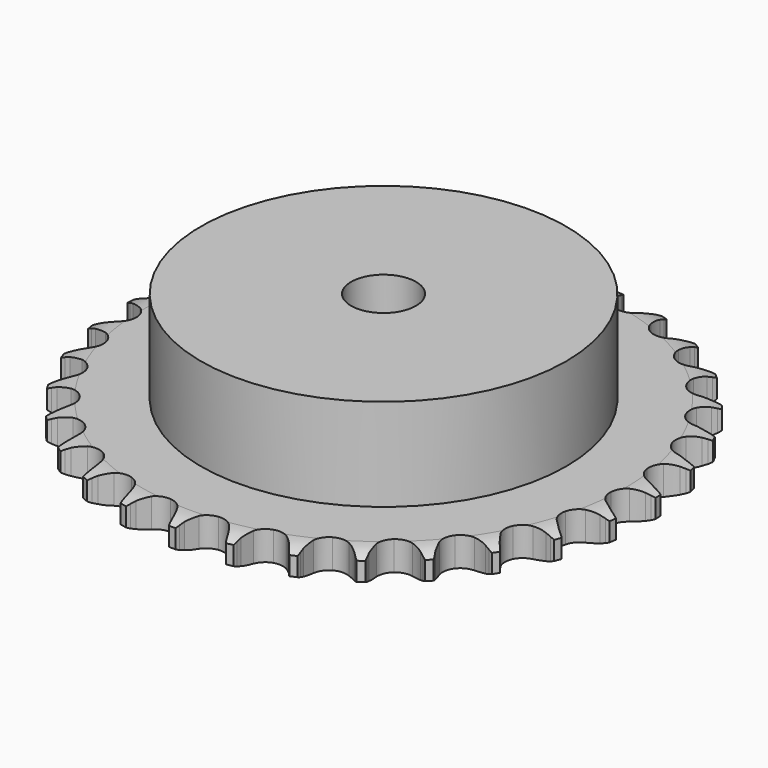
from build123d import *

# Parameters (mm, degrees)
PAD_DEPTH         = 7.2
SKETCH001_R       = 45
PAD001_DEPTH      = 30
SKETCH002_R       = 8
POCKET_DEPTH      = 0.001
POCKET_DEPTH_BACK = 30.001


with BuildPart() as part:
    # Sprocket → Pad (new body)
    with BuildSketch(Plane.XY):
        with BuildLine():
            ThreePointArc((-6.734861, 66.229298), (-5.950048, 65.186321), (-5.374824, 64.014634))
            Line((-5.374824, 64.014634), (-4.959758, 62.918621))
            ThreePointArc((-4.959758, 62.918621), (-4.301269, 61.492886), (-3.448535, 60.174109))
            ThreePointArc((-3.448535, 60.174109), (-1.927238, 58.906685), (0, 58.452308))
            ThreePointArc((0, 58.452308), (1.927238, 58.906685), (3.448535, 60.174109))
            ThreePointArc((3.448535, 60.174109), (4.301269, 61.492886), (4.959758, 62.918621))
            Line((4.959758, 62.918621), (5.374824, 64.014634))
            ThreePointArc((5.374824, 64.014634), (5.950048, 65.186321), (6.734861, 66.229298))
            ThreePointArc((6.734861, 66.229298), (7.293659, 65.049689), (7.62125, 63.786195))
            Line((7.62125, 63.786195), (7.807193, 62.629065))
            ThreePointArc((7.807193, 62.629065), (8.165206, 61.099962), (8.735016, 59.636526))
            ThreePointArc((8.735016, 59.636526), (9.970041, 58.088812), (11.766363, 57.255786))
            ThreePointArc((11.766363, 57.255786), (13.745616, 57.312912), (15.490902, 58.248156))
            Line((15.490902, 58.248156), (17.523657, 60.632281))
            ThreePointArc((17.523657, 60.632281), (17.824206, 61.135561), (18.150852, 61.622307))
            ThreePointArc((18.150852, 61.622307), (18.95016, 62.654217), (19.928858, 63.517862))
            ThreePointArc((19.928858, 63.517862), (20.238764, 62.249915), (20.305309, 60.946342))
            Line((20.305309, 60.946342), (20.254518, 59.775468))
            ThreePointArc((20.254518, 59.775468), (20.297395, 58.205599), (20.560954, 56.657417))
            ThreePointArc((20.560954, 56.657417), (21.459146, 54.892776), (23.05101, 53.715205))
            ThreePointArc((23.05101, 53.715205), (25.001247, 53.372741), (26.89907, 53.937518))
            Line((26.89907, 53.937518), (29.370135, 55.863649))
            ThreePointArc((29.370135, 55.863649), (29.765841, 56.296126), (30.183783, 56.707155))
            ThreePointArc((30.183783, 56.707155), (31.174451, 57.557042), (32.306965, 58.205998))
            ThreePointArc((32.306965, 58.205998), (32.355291, 56.901622), (32.158067, 55.611338))
            Line((32.158067, 55.611338), (31.87262, 54.474656))
            ThreePointArc((31.87262, 54.474656), (31.598607, 52.928291), (31.545125, 51.358747))
            ThreePointArc((31.545125, 51.358747), (32.06971, 49.449423), (33.391946, 47.975517))
            ThreePointArc((33.391946, 47.975517), (35.233323, 47.247484), (37.205987, 47.41867))
            Line((37.205987, 47.41867), (40.014197, 48.807952))
            ThreePointArc((40.014197, 48.807952), (40.488859, 49.151921), (40.980985, 49.470405))
            ThreePointArc((40.980985, 49.470405), (42.122455, 50.103475), (43.362421, 50.511174))
            ThreePointArc((43.362421, 50.511174), (43.147189, 49.223771), (42.694269, 47.999599))
            Line((42.694269, 47.999599), (42.185853, 46.943646))
            ThreePointArc((42.185853, 46.943646), (41.606169, 45.484093), (41.237834, 43.957443))
            ThreePointArc((41.237834, 43.957443), (41.367337, 41.981606), (42.365811, 40.271707))
            ThreePointArc((42.365811, 40.271707), (44.022944, 39.187909), (45.989686, 38.958497))
            Line((45.989686, 38.958497), (49.020072, 39.754051))
            ThreePointArc((49.020072, 39.754051), (49.554259, 39.995431), (50.100421, 40.208331))
            ThreePointArc((50.100421, 40.208331), (51.345962, 40.598666), (52.642614, 40.748416))
            ThreePointArc((52.642614, 40.748416), (52.172635, 39.530692), (51.482563, 38.422751))
            Line((51.482563, 38.422751), (50.771993, 37.490757))
            ThreePointArc((50.771993, 37.490757), (49.910368, 36.177771), (49.242261, 34.756517))
            ThreePointArc((49.242261, 34.756517), (48.97138, 32.795056), (49.605216, 30.919167))
            ThreePointArc((49.605216, 30.919167), (51.01026, 29.523977), (52.890563, 28.903359))
            Line((52.890563, 28.903359), (56.01906, 29.072616))
            ThreePointArc((56.01906, 29.072616), (56.590902, 29.201523), (57.16874, 29.300124))
            ThreePointArc((57.16874, 29.300124), (58.467358, 29.431743), (59.767612, 29.317414))
            ThreePointArc((59.767612, 29.317414), (59.062128, 28.219222), (58.163155, 27.272872))
            Line((58.163155, 27.272872), (57.279521, 26.502992))
            ThreePointArc((57.279521, 26.502992), (56.171232, 25.390326), (55.230705, 24.132655))
            ThreePointArc((55.230705, 24.132655), (54.57053, 22.265873), (54.813776, 20.300794))
            ThreePointArc((54.813776, 20.300794), (55.909209, 18.651329), (57.626093, 17.664913))
            Line((57.626093, 17.664913), (60.724621, 17.200944))
            ThreePointArc((60.724621, 17.200944), (61.310706, 17.212101), (61.896564, 17.192366))
            ThreePointArc((61.896564, 17.192366), (63.195094, 17.059881), (64.445718, 16.686152))
            ThreePointArc((64.445718, 16.686152), (63.533611, 15.752454), (62.46254, 15.006437))
            Line((62.46254, 15.006437), (61.442019, 14.430191))
            ThreePointArc((61.442019, 14.430191), (60.132439, 13.563399), (58.957997, 12.520799))
            ThreePointArc((58.957997, 12.520799), (57.935555, 10.825122), (57.778255, 8.851303))
            ThreePointArc((57.778255, 8.851303), (58.51923, 7.015094), (60.002404, 5.703264))
            Line((60.002404, 5.703264), (62.944109, 4.625063))
            ThreePointArc((62.944109, 4.625063), (63.520443, 4.518014), (64.090336, 4.38075))
            ThreePointArc((64.090336, 4.38075), (65.335616, 3.989585), (66.485408, 3.371758))
            ThreePointArc((66.485408, 3.371758), (65.40402, 2.640779), (64.204702, 2.125638))
            Line((64.204702, 2.125638), (63.089073, 1.766617))
            ThreePointArc((63.089073, 1.766617), (61.631816, 1.181184), (60.271541, 0.39634))
            ThreePointArc((60.271541, 0.39634), (58.928692, -1.05881), (58.377285, -2.960561))
            ThreePointArc((58.377285, -2.960561), (58.733466, -4.908339), (59.92221, -6.491877))
            Line((59.92221, -6.491877), (62.586658, -8.140168))
            ThreePointArc((62.586658, -8.140168), (63.129645, -8.361041), (63.660241, -8.610214))
            ThreePointArc((63.660241, -8.610214), (64.80129, -9.244045), (65.803178, -10.080676))
            ThreePointArc((65.803178, -10.080676), (64.59678, -10.579011), (63.318316, -10.842186))
            Line((63.318316, -10.842186), (62.153253, -10.969283))
            ThreePointArc((62.153253, -10.969283), (60.60798, -11.249388), (59.117562, -11.744345))
            ThreePointArc((59.117562, -11.744345), (57.509281, -12.899395), (56.586342, -14.651219))
            ThreePointArc((56.586342, -14.651219), (56.543147, -16.630825), (57.388794, -18.42124))
            Line((57.388794, -18.42124), (59.666901, -20.57214))
            ThreePointArc((59.666901, -20.57214), (60.154312, -20.897794), (60.623889, -21.248675))
            ThreePointArc((60.623889, -21.248675), (61.613991, -22.099222), (62.426958, -23.120406))
            ThreePointArc((62.426958, -23.120406), (61.144941, -23.365694), (59.83967, -23.366129))
            Line((59.83967, -23.366129), (58.672872, -23.256099))
            ThreePointArc((58.672872, -23.256099), (57.102846, -23.219409), (55.543303, -23.404216))
            ThreePointArc((55.543303, -23.404216), (53.735434, -24.211876), (52.478748, -25.742055))
            ThreePointArc((52.478748, -25.742055), (52.037945, -27.672443), (52.505874, -29.596436))
            Line((52.505874, -29.596436), (54.304375, -32.161886))
            ThreePointArc((54.304375, -32.161886), (54.716255, -32.578989), (55.105588, -33.017212))
            ThreePointArc((55.105588, -33.017212), (55.904208, -34.049655), (56.494971, -35.213584))
            ThreePointArc((56.494971, -35.213584), (55.189821, -35.195783), (53.911182, -34.93346))
            Line((53.911182, -34.93346), (52.790417, -34.590808))
            ThreePointArc((52.790417, -34.590808), (51.259915, -34.238825), (49.695094, -34.105915))
            ThreePointArc((49.695094, -34.105915), (47.761651, -34.533121), (46.222667, -35.779007))
            ThreePointArc((46.222667, -35.779007), (45.402303, -37.581148), (45.473357, -39.559949))
            Line((45.473357, -39.559949), (46.718621, -42.434921))
            ThreePointArc((46.718621, -42.434921), (47.038108, -42.926396), (47.331257, -43.434021))
            ThreePointArc((47.331257, -43.434021), (47.905701, -44.606091), (48.250073, -45.865114))
            ThreePointArc((48.250073, -45.865114), (46.975223, -45.584953), (45.775563, -45.070611))
            Line((45.775563, -45.070611), (44.746715, -44.509365))
            ThreePointArc((44.746715, -44.509365), (43.318396, -43.856499), (41.812362, -43.411313))
            ThreePointArc((41.812362, -43.411313), (39.832501, -43.440576), (38.074225, -44.351164))
            ThreePointArc((38.074225, -44.351164), (36.907886, -45.951276), (36.579155, -47.903874))
            Line((36.579155, -47.903874), (37.220201, -50.970665))
            ThreePointArc((37.220201, -50.970665), (37.434215, -51.516392), (37.61918, -52.072636))
            ThreePointArc((37.61918, -52.072636), (37.945928, -53.336348), (38.029811, -54.638921))
            ThreePointArc((38.029811, -54.638921), (36.837454, -54.107869), (35.765887, -53.362566))
            Line((35.765887, -53.362566), (34.871078, -52.605703))
            ThreePointArc((34.871078, -52.605703), (33.603418, -51.678683), (32.217828, -50.939448))
            ThreePointArc((32.217828, -50.939448), (30.272604, -50.569568), (28.36702, -51.107578))
            ThreePointArc((28.36702, -51.107578), (26.902456, -52.440153), (26.187399, -54.286609))
            Line((26.187399, -54.286609), (26.197982, -57.419664))
            ThreePointArc((26.197982, -57.419664), (26.297761, -57.9973), (26.366968, -58.579392))
            ThreePointArc((26.366968, -58.579392), (26.432645, -59.883009), (26.252605, -61.175804))
            ThreePointArc((26.252605, -61.175804), (25.191555, -60.415603), (24.291952, -59.469851))
            Line((24.291952, -59.469851), (23.567815, -58.548358))
            ThreePointArc((23.567815, -58.548358), (22.512712, -57.385135), (21.304291, -56.382115))
            ThreePointArc((21.304291, -56.382115), (19.473343, -55.628237), (17.498465, -55.771642))
            ThreePointArc((17.498465, -55.771642), (15.795636, -56.782125), (14.723527, -58.446844))
            Line((14.723527, -58.446844), (14.103215, -61.517895))
            ThreePointArc((14.103215, -61.517895), (14.084674, -62.103793), (14.03529, -62.6879))
            ThreePointArc((14.03529, -62.6879), (13.837206, -63.978053), (13.400614, -65.208142))
            ThreePointArc((13.400614, -65.208142), (12.514311, -64.249914), (11.823501, -63.142434))
            Line((11.823501, -63.142434), (11.299683, -62.094036))
            ThreePointArc((11.299683, -62.094036), (10.500332, -60.742234), (9.518555, -59.516492))
            ThreePointArc((9.518555, -59.516492), (7.876841, -58.409478), (5.913522, -58.152408))
            ThreePointArc((5.913522, -58.152408), (4.04214, -58.799429), (2.656872, -60.214257))
            Line((2.656872, -60.214257), (1.43106, -63.097576))
            ThreePointArc((1.43106, -63.097576), (1.294958, -63.667748), (1.129005, -64.229958))
            ThreePointArc((1.129005, -64.229958), (0.67527, -65.453827), (0, -66.570851))
            ThreePointArc((0, -66.570851), (-0.67527, -65.453827), (-1.129005, -64.229958))
            Line((-1.129005, -64.229958), (-1.43106, -63.097576))
            ThreePointArc((-1.43106, -63.097576), (-1.941932, -61.612538), (-2.656872, -60.214257))
            ThreePointArc((-2.656872, -60.214257), (-4.04214, -58.799429), (-5.913522, -58.152408))
            ThreePointArc((-5.913522, -58.152408), (-7.876841, -58.409478), (-9.518555, -59.516492))
            Line((-9.518555, -59.516492), (-11.299683, -62.094036))
            ThreePointArc((-11.299683, -62.094036), (-11.547773, -62.625139), (-11.823501, -63.142434))
            ThreePointArc((-11.823501, -63.142434), (-12.514311, -64.249914), (-13.400614, -65.208142))
            ThreePointArc((-13.400614, -65.208142), (-13.837206, -63.978053), (-14.03529, -62.6879))
            Line((-14.03529, -62.6879), (-14.103215, -61.517895))
            ThreePointArc((-14.103215, -61.517895), (-14.304693, -59.960418), (-14.723527, -58.446844))
            ThreePointArc((-14.723527, -58.446844), (-15.795636, -56.782125), (-17.498465, -55.771642))
            ThreePointArc((-17.498465, -55.771642), (-19.473343, -55.628237), (-21.304291, -56.382115))
            Line((-21.304291, -56.382115), (-23.567815, -58.548358))
            ThreePointArc((-23.567815, -58.548358), (-23.917738, -59.018649), (-24.291952, -59.469851))
            ThreePointArc((-24.291952, -59.469851), (-25.191555, -60.415603), (-26.252605, -61.175804))
            ThreePointArc((-26.252605, -61.175804), (-26.432645, -59.883009), (-26.366968, -58.579392))
            Line((-26.366968, -58.579392), (-26.197982, -57.419664))
            ThreePointArc((-26.197982, -57.419664), (-26.081819, -55.853511), (-26.187399, -54.286609))
            ThreePointArc((-26.187399, -54.286609), (-26.902456, -52.440153), (-28.36702, -51.107578))
            ThreePointArc((-28.36702, -51.107578), (-30.272604, -50.569568), (-32.217828, -50.939448))
            Line((-32.217828, -50.939448), (-34.871078, -52.605703))
            ThreePointArc((-34.871078, -52.605703), (-35.308507, -52.995928), (-35.765887, -53.362566))
            ThreePointArc((-35.765887, -53.362566), (-36.837454, -54.107869), (-38.029811, -54.638921))
            ThreePointArc((-38.029811, -54.638921), (-37.945928, -53.336348), (-37.61918, -52.072636))
            Line((-37.61918, -52.072636), (-37.220201, -50.970665))
            ThreePointArc((-37.220201, -50.970665), (-36.791151, -49.459955), (-36.579155, -47.903874))
            ThreePointArc((-36.579155, -47.903874), (-36.907886, -45.951276), (-38.074225, -44.351164))
            ThreePointArc((-38.074225, -44.351164), (-39.832501, -43.440576), (-41.812362, -43.411313))
            Line((-41.812362, -43.411313), (-44.746715, -44.509365))
            ThreePointArc((-44.746715, -44.509365), (-45.253742, -44.803549), (-45.775563, -45.070611))
            ThreePointArc((-45.775563, -45.070611), (-46.975223, -45.584953), (-48.250073, -45.865114))
            ThreePointArc((-48.250073, -45.865114), (-47.905701, -44.606091), (-47.331257, -43.434021))
            Line((-47.331257, -43.434021), (-46.718621, -42.434921))
            ThreePointArc((-46.718621, -42.434921), (-45.99425, -41.041502), (-45.473357, -39.559949))
            ThreePointArc((-45.473357, -39.559949), (-45.402303, -37.581148), (-46.222667, -35.779007))
            ThreePointArc((-46.222667, -35.779007), (-47.761651, -34.533121), (-49.695094, -34.105915))
            Line((-49.695094, -34.105915), (-52.790417, -34.590808))
            ThreePointArc((-52.790417, -34.590808), (-53.346283, -34.776906), (-53.911182, -34.93346))
            ThreePointArc((-53.911182, -34.93346), (-55.189821, -35.195783), (-56.494971, -35.213584))
            ThreePointArc((-56.494971, -35.213584), (-55.904208, -34.049655), (-55.105588, -33.017212))
            Line((-55.105588, -33.017212), (-54.304375, -32.161886))
            ThreePointArc((-54.304375, -32.161886), (-53.314339, -30.942806), (-52.505874, -29.596436))
            ThreePointArc((-52.505874, -29.596436), (-52.037945, -27.672443), (-52.478748, -25.742055))
            ThreePointArc((-52.478748, -25.742055), (-53.735434, -24.211876), (-55.543303, -23.404216))
            Line((-55.543303, -23.404216), (-58.672872, -23.256099))
            ThreePointArc((-58.672872, -23.256099), (-59.254821, -23.326493), (-59.83967, -23.366129))
            ThreePointArc((-59.83967, -23.366129), (-61.144941, -23.365694), (-62.426958, -23.120406))
            ThreePointArc((-62.426958, -23.120406), (-61.613991, -22.099222), (-60.623889, -21.248675))
            Line((-60.623889, -21.248675), (-59.666901, -20.57214))
            ThreePointArc((-59.666901, -20.57214), (-58.451732, -19.577307), (-57.388794, -18.42124))
            ThreePointArc((-57.388794, -18.42124), (-56.543147, -16.630825), (-56.586342, -14.651219))
            ThreePointArc((-56.586342, -14.651219), (-57.509281, -12.899395), (-59.117562, -11.744345))
            Line((-59.117562, -11.744345), (-62.153253, -10.969283))
            ThreePointArc((-62.153253, -10.969283), (-62.73746, -10.921091), (-63.318316, -10.842186))
            ThreePointArc((-63.318316, -10.842186), (-64.59678, -10.579011), (-65.803178, -10.080676))
            ThreePointArc((-65.803178, -10.080676), (-64.80129, -9.244045), (-63.660241, -8.610214))
            Line((-63.660241, -8.610214), (-62.586658, -8.140168))
            ThreePointArc((-62.586658, -8.140168), (-61.196105, -7.410312), (-59.92221, -6.491877))
            ThreePointArc((-59.92221, -6.491877), (-58.733466, -4.908339), (-58.377285, -2.960561))
            ThreePointArc((-58.377285, -2.960561), (-58.928692, -1.05881), (-60.271541, 0.39634))
            Line((-60.271541, 0.39634), (-63.089073, 1.766617))
            ThreePointArc((-63.089073, 1.766617), (-63.65162, 1.931423), (-64.204702, 2.125638))
            ThreePointArc((-64.204702, 2.125638), (-65.40402, 2.640779), (-66.485408, 3.371758))
            ThreePointArc((-66.485408, 3.371758), (-65.335616, 3.989585), (-64.090336, 4.38075))
            Line((-64.090336, 4.38075), (-62.944109, 4.625063))
            ThreePointArc((-62.944109, 4.625063), (-61.435102, 5.060063), (-60.002404, 5.703264))
            ThreePointArc((-60.002404, 5.703264), (-58.51923, 7.015094), (-57.778255, 8.851303))
            ThreePointArc((-57.778255, 8.851303), (-57.935555, 10.825122), (-58.957997, 12.520799))
            Line((-58.957997, 12.520799), (-61.442019, 14.430191))
            ThreePointArc((-61.442019, 14.430191), (-61.959875, 14.704863), (-62.46254, 15.006437))
            ThreePointArc((-62.46254, 15.006437), (-63.533611, 15.752454), (-64.445718, 16.686152))
            ThreePointArc((-64.445718, 16.686152), (-63.195094, 17.059881), (-61.896564, 17.192366))
            Line((-61.896564, 17.192366), (-60.724621, 17.200944))
            ThreePointArc((-60.724621, 17.200944), (-59.158938, 17.323279), (-57.626093, 17.664913))
            ThreePointArc((-57.626093, 17.664913), (-55.909209, 18.651329), (-54.813776, 20.300794))
            ThreePointArc((-54.813776, 20.300794), (-54.57053, 22.265873), (-55.230705, 24.132655))
            Line((-55.230705, 24.132655), (-57.279521, 26.502992))
            ThreePointArc((-57.279521, 26.502992), (-57.731485, 26.876285), (-58.163155, 27.272872))
            ThreePointArc((-58.163155, 27.272872), (-59.062128, 28.219222), (-59.767612, 29.317414))
            ThreePointArc((-59.767612, 29.317414), (-58.467358, 29.431743), (-57.16874, 29.300124))
            Line((-57.16874, 29.300124), (-56.01906, 29.072616))
            ThreePointArc((-56.01906, 29.072616), (-54.460801, 28.877277), (-52.890563, 28.903359))
            ThreePointArc((-52.890563, 28.903359), (-51.01026, 29.523977), (-49.605216, 30.919167))
            ThreePointArc((-49.605216, 30.919167), (-48.97138, 32.795056), (-49.242261, 34.756517))
            Line((-49.242261, 34.756517), (-50.771993, 37.490757))
            ThreePointArc((-50.771993, 37.490757), (-51.139562, 37.947388), (-51.482563, 38.422751))
            ThreePointArc((-51.482563, 38.422751), (-52.172635, 39.530692), (-52.642614, 40.748416))
            ThreePointArc((-52.642614, 40.748416), (-51.345962, 40.598666), (-50.100421, 40.208331))
            Line((-50.100421, 40.208331), (-49.020072, 39.754051))
            ThreePointArc((-49.020072, 39.754051), (-47.533032, 39.249036), (-45.989686, 38.958497))
            ThreePointArc((-45.989686, 38.958497), (-44.022944, 39.187909), (-42.365811, 40.271707))
            ThreePointArc((-42.365811, 40.271707), (-41.367337, 41.981606), (-41.237834, 43.957443))
            Line((-41.237834, 43.957443), (-42.185853, 46.943646))
            ThreePointArc((-42.185853, 46.943646), (-42.453979, 47.464921), (-42.694269, 47.999599))
            ThreePointArc((-42.694269, 47.999599), (-43.147189, 49.223771), (-43.362421, 50.511174))
            ThreePointArc((-43.362421, 50.511174), (-42.122455, 50.103475), (-40.980985, 49.470405))
            Line((-40.980985, 49.470405), (-40.014197, 48.807952))
            ThreePointArc((-40.014197, 48.807952), (-38.659255, 48.013935), (-37.205987, 47.41867))
            ThreePointArc((-37.205987, 47.41867), (-35.233323, 47.247484), (-33.391946, 47.975517))
            ThreePointArc((-33.391946, 47.975517), (-32.06971, 49.449423), (-31.545125, 51.358747))
            Line((-31.545125, 51.358747), (-31.87262, 54.474656))
            ThreePointArc((-31.87262, 54.474656), (-32.030325, 55.039235), (-32.158067, 55.611338))
            ThreePointArc((-32.158067, 55.611338), (-32.355291, 56.901622), (-32.306965, 58.205998))
            ThreePointArc((-32.306965, 58.205998), (-31.174451, 57.557042), (-30.183783, 56.707155))
            Line((-30.183783, 56.707155), (-29.370135, 55.863649))
            ThreePointArc((-29.370135, 55.863649), (-28.202764, 54.813138), (-26.89907, 53.937518))
            ThreePointArc((-26.89907, 53.937518), (-25.001247, 53.372741), (-23.05101, 53.715205))
            ThreePointArc((-23.05101, 53.715205), (-21.459146, 54.892776), (-20.560954, 56.657417))
            Line((-20.560954, 56.657417), (-20.254518, 59.775468))
            ThreePointArc((-20.254518, 59.775468), (-20.295346, 60.360235), (-20.305309, 60.946342))
            ThreePointArc((-20.305309, 60.946342), (-20.238764, 62.249915), (-19.928858, 63.517862))
            ThreePointArc((-19.928858, 63.517862), (-18.95016, 62.654217), (-18.150852, 61.622307))
            Line((-18.150852, 61.622307), (-17.523657, 60.632281))
            ThreePointArc((-17.523657, 60.632281), (-16.591648, 59.368284), (-15.490902, 58.248156))
            ThreePointArc((-15.490902, 58.248156), (-13.745616, 57.312912), (-11.766363, 57.255786))
            ThreePointArc((-11.766363, 57.255786), (-9.970041, 58.088812), (-8.735016, 59.636526))
            Line((-8.735016, 59.636526), (-7.807193, 62.629065))
            ThreePointArc((-7.807193, 62.629065), (-7.729473, 63.210081), (-7.62125, 63.786195))
            ThreePointArc((-7.62125, 63.786195), (-7.293659, 65.049689), (-6.734861, 66.229298))
        make_face()
    extrude(amount=PAD_DEPTH)

    # Sketch → Groove (revolve, cut)
    with BuildSketch(Plane.XZ):
        with BuildLine():
            Line((59.433431, 0), (65.1, 0))
            Line((70.766569, 0), (65.1, 0))
            Line((70.766569, 7.2), (70.766569, 0))
            Line((65.1, 7.2), (70.766569, 7.2))
            Line((59.433431, 7.2), (65.1, 7.2))
            ThreePointArc((65.1, 5.9), (62.34032, 6.870833), (59.433431, 7.2))
            Line((65.1, 1.3), (65.1, 5.9))
            ThreePointArc((59.433431, 0), (62.34032, 0.329167), (65.1, 1.3))
        make_face()
    revolve(axis=Axis((0, 0, 0), (0, 0, 1)), mode=Mode.SUBTRACT)

    # Sketch001 → Pad001 (join)
    with BuildSketch(Plane.XY):
        Circle(SKETCH001_R)
    extrude(amount=PAD001_DEPTH)

    # Sketch002 → Pocket (cut, two sides)
    with BuildSketch(Plane.XY) as pocket_sk:
        Circle(SKETCH002_R)
    extrude(amount=-POCKET_DEPTH, mode=Mode.SUBTRACT)
    extrude(pocket_sk.sketch, amount=POCKET_DEPTH_BACK, mode=Mode.SUBTRACT)


solid = part.part
